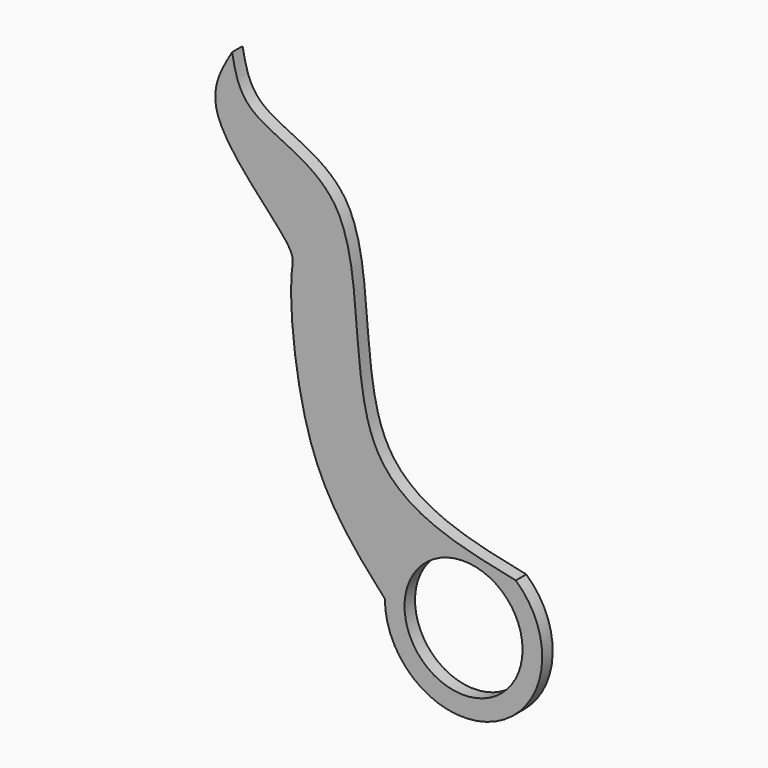
from build123d import *

# Parameters (mm, degrees)
F0_R     = 4.5
F1_DEPTH = 1


with BuildPart() as f1:
    # F0 (on Front) → F1 (new body)
    with BuildSketch(Plane.XZ):
        with BuildLine():
            add(Edge.make_bspline(
                [(-6, 0), (-8.1108165519, 2.3306570595), (-12.4717142392, 7.1457400998), (-13.462858605, 19.4530571728), (-12.5226162196, 21.2359755001), (-20.5051846507, 28.0750720524), (-18.4988408263, 31.4755645848), (-17.6484063268, 32.9169407487)],
                knots=[0, 0, 0, 0, 0.2420030677, 0.4999726847, 0.6026505912, 0.8315744084, 1, 1, 1, 1], degree=3))
            ThreePointArc((-6, 0), (2.458944875, -5.4729873106), (3.9845300338, 4.4859246995))
            add(Edge.make_bspline(
                [(3.9845300338, 4.4859246995), (-0.4137984899, 5.395715096), (-9.8283282397, 7.3431023154), (-6.6503846277, 26.7993496968), (-16.841475017, 28.6227490692), (-17.4141772384, 31.6704596785), (-17.6484063268, 32.9169407487)],
                knots=[0, 0, 0, 0, 0.2850999515, 0.6102504532, 0.8405966004, 1, 1, 1, 1], degree=3))
        make_face()
        Circle(F0_R, mode=Mode.SUBTRACT)
    extrude(amount=F1_DEPTH)


solid = f1.part
